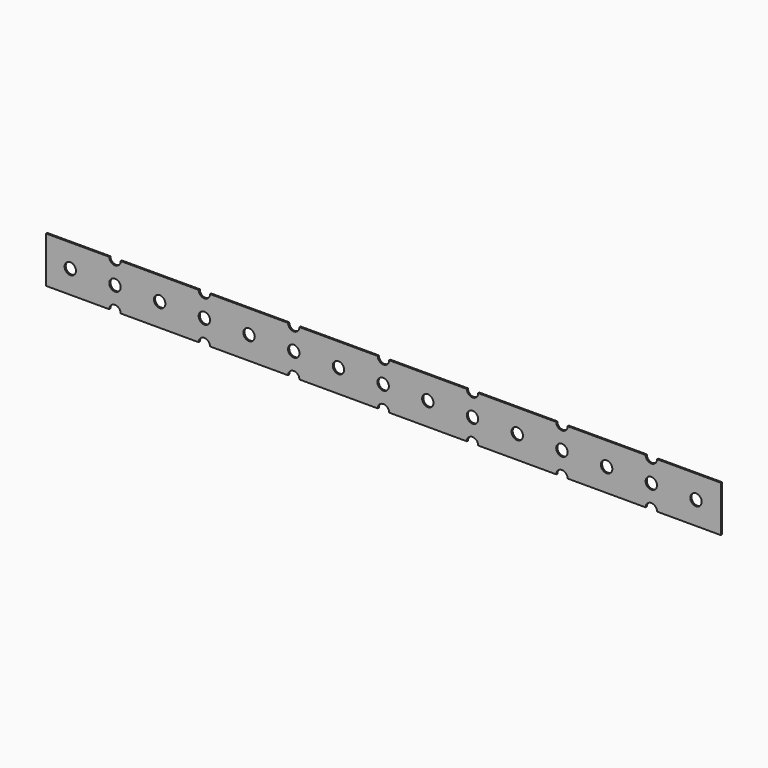
from build123d import *

# Parameters (mm, degrees)
F0_R     = 20
F1_DEPTH = 5


with BuildPart() as f1:
    # F0 (on Front) → F1 (new body)
    with BuildSketch(Plane.XZ):
        with BuildLine():
            ThreePointArc((2106, 0), (2126, 20), (2146, 0))
            Line((2146, 0), (2370, 0))
            Line((2370, 0), (2370, 162))
            Line((2370, 162), (2146, 162))
            ThreePointArc((2146, 162), (2126, 142), (2106, 162))
            Line((2106, 162), (1832, 162))
            ThreePointArc((1832, 162), (1812, 142), (1792, 162))
            Line((1792, 162), (1518, 162))
            ThreePointArc((1518, 162), (1498, 142), (1478, 162))
            Line((1478, 162), (1205, 162))
            ThreePointArc((1205, 162), (1185, 142), (1165, 162))
            Line((1165, 162), (890, 162))
            ThreePointArc((890, 162), (870, 142), (850, 162))
            Line((850, 162), (576, 162))
            ThreePointArc((576, 162), (556, 142), (536, 162))
            Line((536, 162), (262, 162))
            ThreePointArc((262, 162), (242, 142), (222, 162))
            Line((222, 162), (0, 162))
            Line((0, 162), (0, 0))
            Line((0, 0), (222, 0))
            ThreePointArc((222, 0), (242, 20), (262, 0))
            Line((262, 0), (536, 0))
            ThreePointArc((536, 0), (556, 20), (576, 0))
            Line((576, 0), (850, 0))
            ThreePointArc((850, 0), (870, 20), (890, 0))
            Line((890, 0), (1165, 0))
            ThreePointArc((1165, 0), (1185, 20), (1205, 0))
            Line((1205, 0), (1478, 0))
            ThreePointArc((1478, 0), (1498, 20), (1518, 0))
            Line((1518, 0), (1792, 0))
            ThreePointArc((1792, 0), (1812, 20), (1832, 0))
            Line((1832, 0), (2106, 0))
        make_face()
        with Locations((85, 81)):
            Circle(F0_R, mode=Mode.SUBTRACT)
        with Locations((242, 81)):
            Circle(F0_R, mode=Mode.SUBTRACT)
        with Locations((399, 81)):
            Circle(F0_R, mode=Mode.SUBTRACT)
        with Locations((556, 81)):
            Circle(F0_R, mode=Mode.SUBTRACT)
        with Locations((713, 81)):
            Circle(F0_R, mode=Mode.SUBTRACT)
        with Locations((870, 81)):
            Circle(F0_R, mode=Mode.SUBTRACT)
        with Locations((1027, 81)):
            Circle(F0_R, mode=Mode.SUBTRACT)
        with Locations((1184, 81)):
            Circle(F0_R, mode=Mode.SUBTRACT)
        with Locations((1341, 81)):
            Circle(F0_R, mode=Mode.SUBTRACT)
        with Locations((1498, 81)):
            Circle(F0_R, mode=Mode.SUBTRACT)
        with Locations((1655, 81)):
            Circle(F0_R, mode=Mode.SUBTRACT)
        with Locations((1812, 81)):
            Circle(F0_R, mode=Mode.SUBTRACT)
        with Locations((1969, 81)):
            Circle(F0_R, mode=Mode.SUBTRACT)
        with Locations((2126, 81)):
            Circle(F0_R, mode=Mode.SUBTRACT)
        with Locations((2283, 81)):
            Circle(F0_R, mode=Mode.SUBTRACT)
    extrude(amount=F1_DEPTH)


solid = f1.part
